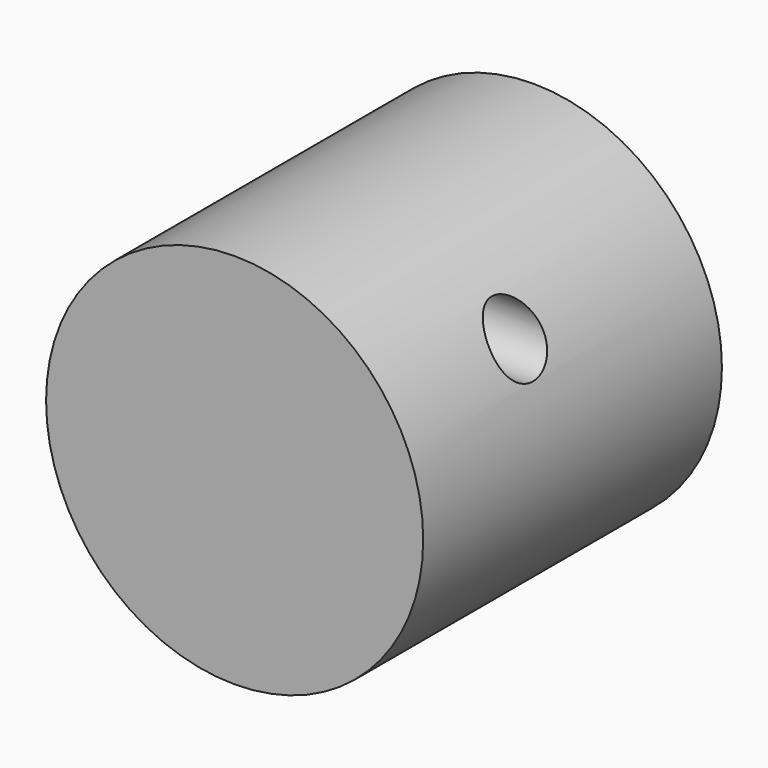
from build123d import *

# Parameters (mm, degrees)
F0_R     = 10.1
F1_DEPTH = 20
F2_R     = 1.65
F3_DEPTH = 11.446996


with BuildPart() as f1:
    # F0 (on Front) → F1 (new body)
    with BuildSketch(Plane.XZ):
        Circle(F0_R)
    extrude(amount=F1_DEPTH)

    # F2 (on Right) → F3 (cut, symmetric)
    with BuildSketch(Plane.YZ):
        with Locations((-11.7, 5.5)):
            Circle(F2_R)
    extrude(amount=F3_DEPTH, both=True, mode=Mode.SUBTRACT)


solid = f1.part
